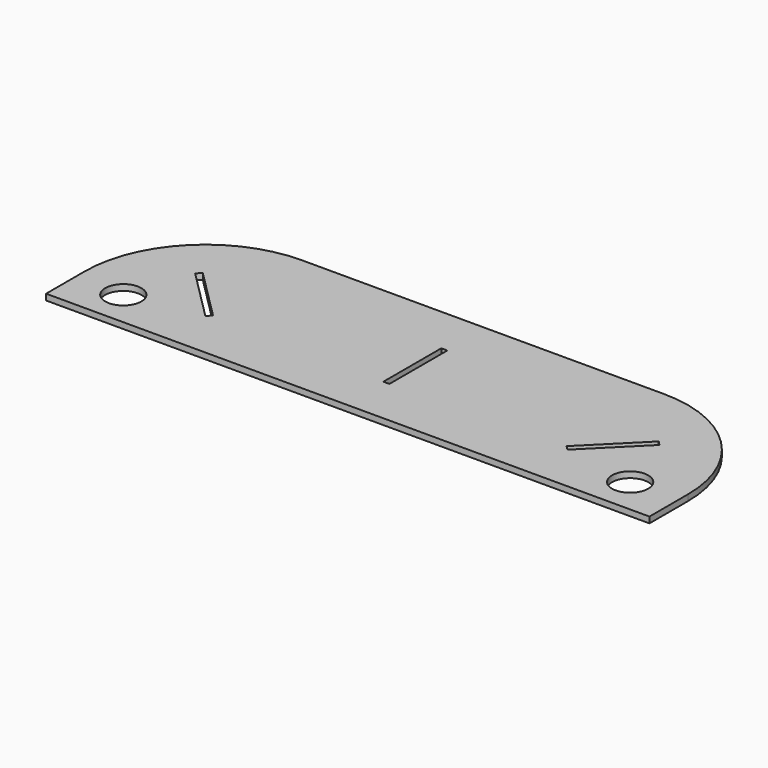
from build123d import *

# Parameters (mm, degrees)
F0_R     = 75
F0_W     = 25
F0_H     = 300
F1_DEPTH = 25


with BuildPart() as f1:
    # F0 (on Top) → F1 (new body)
    with BuildSketch(Plane.XY):
        with BuildLine():
            Line((-500, 200), (-500, 0))
            Line((-500, 0), (2000, 0))
            Line((2000, 0), (2000, 200))
            ThreePointArc((2000, 200), (1853.553391, 553.553391), (1500, 700))
            Line((1500, 700), (0, 700))
            ThreePointArc((0, 700), (-353.553391, 553.553391), (-500, 200))
        make_face()
        with Locations((-300, 150)):
            Circle(F0_R, mode=Mode.SUBTRACT)
        Polygon((17.67767, 217.67767), (0, 200), (-212.132034, 412.132034), (-194.454365, 429.809704), align=None, mode=Mode.SUBTRACT)
        with Locations((1800, 150)):
            Circle(F0_R, mode=Mode.SUBTRACT)
        with Locations((750, 350)):
            Rectangle(F0_W, F0_H, mode=Mode.SUBTRACT)
        Polygon((1712.132034, 412.132034), (1500, 200), (1482.32233, 217.67767), (1694.454365, 429.809704), align=None, mode=Mode.SUBTRACT)
    extrude(amount=F1_DEPTH)


solid = f1.part
